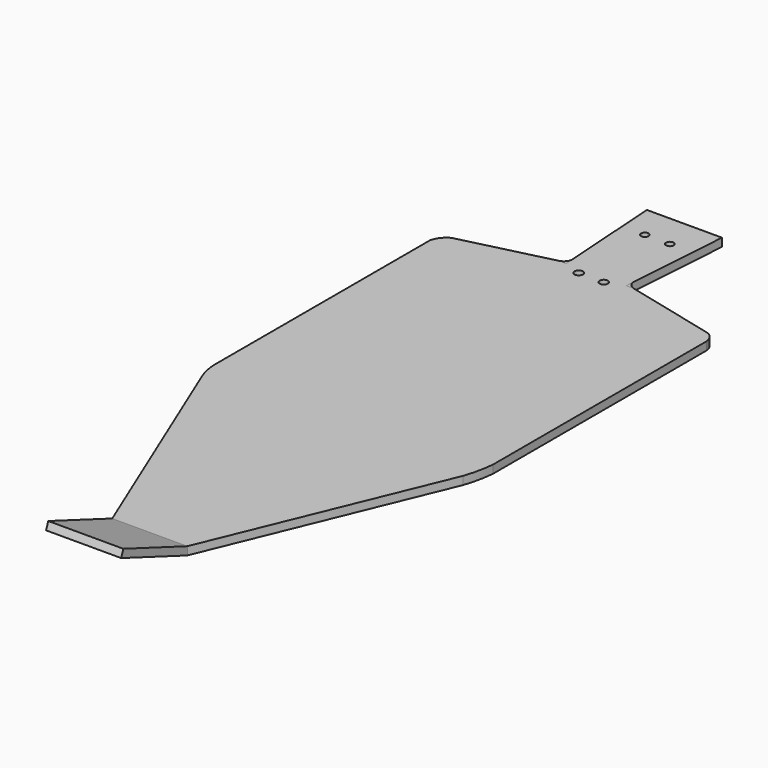
from build123d import *

# Parameters (mm, degrees)
F0_W      = 30
F0_H      = 33.0341812223
F1_DEPTH  = 3.25
F2_DEPTH  = 25
F4_DEPTH  = 70
F6_DEPTH  = 25
F8_DEPTH  = 25
F10_DEPTH = 25
F12_DEPTH = 3.25
F13_R     = 1.5272923045
F13_R_2   = 1.5
F13_R_3   = 1.6897959648
F13_R_4   = 1.6439369158
F14_DEPTH = 25


with BuildPart() as f1:
    # F0 (on Top) → F1 (new body)
    with BuildSketch(Plane.XY):
        Polygon((-19.2975898087, 160.6853131205), (-49.2975898087, 160.6853131205), (-46.2975898087, 116.6853131205), (-22.2975898087, 116.6853131205), align=None)
        Polygon((-22.2975898087, 116.6853131205), (-46.2975898087, 116.6853131205), (-49.2975898087, 116.6853131205), (-89.2975898087, 106.8327352405), (-89.2975898087, -9.3146868795), (-49.2975898087, -106.2805056572), (-19.2975898087, -106.2805056572), (20.7024101913, -9.3146868795), (20.7024101913, 106.8327352405), (-19.2975898087, 116.6853131205), align=None)
        with Locations((-34.2975898087, -122.7975962684)):
            Rectangle(F0_W, F0_H)
    extrude(amount=F1_DEPTH)

    # F0 (on Top) → F2 (join)
    with BuildSketch(Plane.XY):
        with Locations((-34.2975898087, -122.7975962684)):
            Rectangle(F0_W, F0_H)
    extrude(amount=F2_DEPTH)

    # F3 (on face) → F4 (cut)
    with BuildSketch(Plane(origin=(-49.2975898087, 0, 0), x_dir=(0, -1, 0), z_dir=(-1, 0, 0))):
        Polygon((106.2805056572, 25), (106.2805056572, 3.25), (138.2389306125, 15.342938198), (139.3146868795, 12.5), (139.3146868795, 25), align=None)
        Polygon((139.3146868795, 12.5), (106.2805056572, 0), (139.3146868795, 0), align=None)
    extrude(amount=-F4_DEPTH, mode=Mode.SUBTRACT)

    # F5 (on face) → F6 (cut)
    with BuildSketch(Plane.XY.offset(3.25)):
        with BuildLine():
            ThreePointArc((20.7024101913, -3.5812088754), (19.7957036809, -9.631032192), (18.1423073419, -15.5207486031))
            Line((18.1423073419, -15.5207486031), (20.7024101913, -9.3146868795))
            Line((20.7024101913, -9.3146868795), (20.7024101913, -3.5812088754))
        make_face()
        with BuildLine():
            ThreePointArc((-87.8115793592, -12.9169923783), (-88.8515785257, -9.2205689181), (-89.2975898087, -5.4066183942))
            Line((-89.2975898087, -5.4066183942), (-89.2975898087, -9.3146868795))
            Line((-89.2975898087, -9.3146868795), (-87.8115793592, -12.9169923783))
        make_face()
    extrude(amount=-F6_DEPTH, mode=Mode.SUBTRACT)

    # F7 (on face) → F8 (cut)
    with BuildSketch(Plane.XY.offset(3.25)):
        with BuildLine():
            Line((-89.2975898087, 106.8327352405), (-89.2975898087, 102.3979485035))
            ThreePointArc((-89.2975898087, 102.3979485035), (-87.8097691882, 105.5783050654), (-85.1386033392, 107.8571536928))
            Line((-85.1386033392, 107.8571536928), (-89.2975898087, 106.8327352405))
        make_face()
        with BuildLine():
            ThreePointArc((18.1156906615, 107.469881631), (19.8559858763, 105.5257173252), (20.7024101913, 103.057526052))
            Line((20.7024101913, 103.057526052), (20.7024101913, 106.8327352405))
            Line((20.7024101913, 106.8327352405), (18.1156906615, 107.469881631))
        make_face()
    extrude(amount=-F8_DEPTH, mode=Mode.SUBTRACT)

    # F9 (on face) → F10 (cut)
    with BuildSketch(Plane.XY.offset(3.25)):
        with BuildLine():
            ThreePointArc((16.9817362441, 107.7491909862), (18.1382259627, 107.2650581653), (19.1438997646, 106.5164105434))
            ThreePointArc((19.1438997646, 106.5164105434), (18.6553024951, 107.0206527624), (18.1156906615, 107.469881631))
            Line((18.1156906615, 107.469881631), (16.9817362441, 107.7491909862))
        make_face()
    extrude(amount=-F10_DEPTH, mode=Mode.SUBTRACT)

    # F13 (on face) → F14 (cut)
    with BuildSketch(Plane.XY.offset(3.25)):
        with Locations((-29.2975898087, 147.1853131205)):
            Circle(F13_R)
        with Locations((-39.2975898087, 147.1853131205)):
            Circle(F13_R_2)
        with Locations((-39.2975898087, 114.1853131205)):
            Circle(F13_R_3)
        with Locations((-29.2975898087, 114.1853131205)):
            Circle(F13_R_4)
    extrude(amount=-F14_DEPTH, mode=Mode.SUBTRACT)


with BuildPart() as f12:
    # F11 (on face) → F12 (new body)
    with BuildSketch(Plane.XY.offset(3.25)):
        with BuildLine():
            ThreePointArc((-46.4989761162, 119.6389789632), (-47.464933648, 117.7515453207), (-49.2975898087, 116.6853131205))
            Line((-49.2975898087, 116.6853131205), (-46.2975898087, 116.6853131205))
            Line((-46.2975898087, 116.6853131205), (-46.4989761162, 119.6389789632))
        make_face()
    extrude(amount=-F12_DEPTH)


with BuildPart() as f12b:
    # F11 (on face) → F12, piece 2 (new body)
    with BuildSketch(Plane.XY.offset(3.25)):
        with BuildLine():
            ThreePointArc((-19.2975898087, 116.6853131205), (-21.1302459694, 117.7515453207), (-22.0962035012, 119.6389789632))
            Line((-22.0962035012, 119.6389789632), (-22.2975898087, 116.6853131205))
            Line((-22.2975898087, 116.6853131205), (-19.2975898087, 116.6853131205))
        make_face()
    extrude(amount=-F12_DEPTH)


solid = Compound([f1.part, f12.part, f12b.part])
